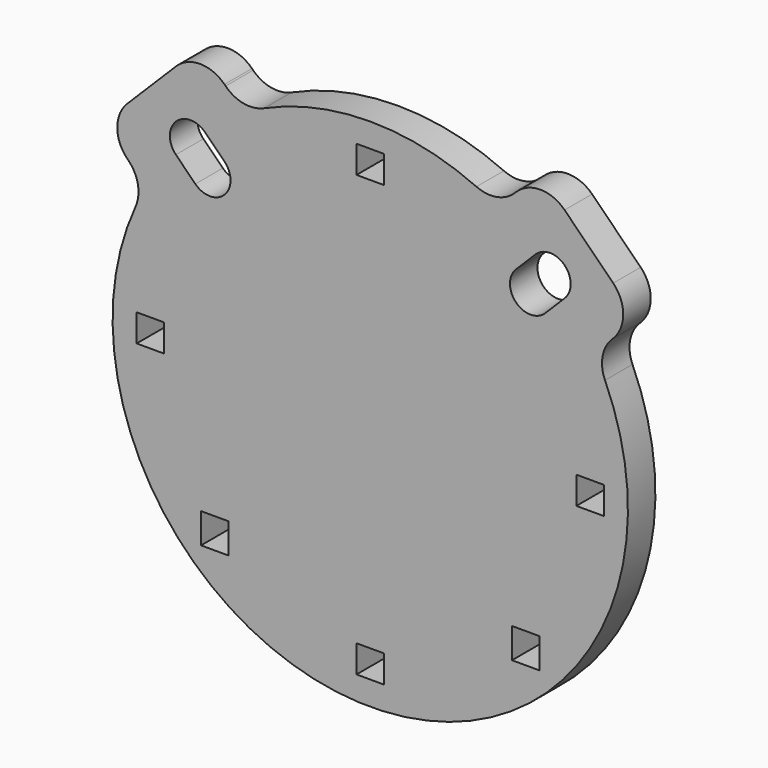
from build123d import *

# Parameters (mm, degrees)
F1_DEPTH = 10
F3_DEPTH = 10.001
F4_W     = 8
F4_H     = 8
F4_H_2   = 8.779348
F5_DEPTH = 10.001


with BuildPart() as f1:
    # F0 (on Front) → F1 (new body)
    with BuildSketch(Plane.XZ):
        with BuildLine():
            ThreePointArc((-70.378245, 42.093974), (-67.611515, 36.816708), (-68.337629, 30.902564))
            ThreePointArc((-68.337629, 30.902564), (0, -75), (68.337629, 30.902564))
            ThreePointArc((68.337629, 30.902564), (67.611515, 36.816708), (70.378245, 42.093974))
            Line((70.378245, 42.093974), (70.710678, 42.426407))
            ThreePointArc((70.710678, 42.426407), (73.63961, 49.497475), (70.710678, 56.568542))
            Line((70.710678, 56.568542), (56.568542, 70.710678))
            ThreePointArc((56.568542, 70.710678), (49.497475, 73.63961), (42.426407, 70.710678))
            Line((42.426407, 70.710678), (42.093974, 70.378245))
            ThreePointArc((42.093974, 70.378245), (36.816708, 67.611515), (30.902564, 68.337629))
            ThreePointArc((30.902564, 68.337629), (0, 75), (-30.902564, 68.337629))
            ThreePointArc((-30.902564, 68.337629), (-36.816708, 67.611515), (-42.093974, 70.378245))
            Line((-42.093974, 70.378245), (-42.426407, 70.710678))
            ThreePointArc((-42.426407, 70.710678), (-49.497475, 73.63961), (-56.568542, 70.710678))
            Line((-56.568542, 70.710678), (-70.710678, 56.568542))
            ThreePointArc((-70.710678, 56.568542), (-73.63961, 49.497475), (-70.710678, 42.426407))
            Line((-70.710678, 42.426407), (-70.378245, 42.093974))
        make_face()
    extrude(amount=F1_DEPTH)

    # F2 (on face) → F3 (cut, through all)
    with BuildSketch(Plane(origin=(0, 0, 0), x_dir=(-1, 0, 0), z_dir=(0, 1, 0))):
        with BuildLine():
            ThreePointArc((-50.911688, 42.426407), (-42.426407, 42.426407), (-42.426407, 50.911688))
            Line((-42.426407, 50.911688), (-48.083261, 56.568542))
            ThreePointArc((-48.083261, 56.568542), (-56.568542, 56.568542), (-56.568542, 48.083261))
            Line((-56.568542, 48.083261), (-50.911688, 42.426407))
        make_face()
        with BuildLine():
            Line((50.911688, 42.426407), (56.568542, 48.083261))
            ThreePointArc((56.568542, 48.083261), (56.568542, 56.568542), (48.083261, 56.568542))
            Line((48.083261, 56.568542), (42.426407, 50.911688))
            ThreePointArc((42.426407, 50.911688), (42.426407, 42.426407), (50.911688, 42.426407))
        make_face()
    extrude(amount=-F3_DEPTH, mode=Mode.SUBTRACT)

    # F4 (on face) → F5 (cut, through all)
    with BuildSketch(Plane.XZ.offset(10)):
        with Locations((64, 0)):
            Rectangle(F4_W, F4_H)
        with Locations((0, 64)):
            Rectangle(F4_W, F4_H)
        with Locations((0, -64)):
            Rectangle(F4_W, F4_H)
        with Locations((-64, 0)):
            Rectangle(F4_W, F4_H)
        with Locations((45.254834, -45.254834)):
            Rectangle(F4_W, F4_H_2)
        with Locations((-45.254834, -45.254834)):
            Rectangle(F4_W, F4_H_2)
    extrude(amount=-F5_DEPTH, mode=Mode.SUBTRACT)


solid = f1.part
